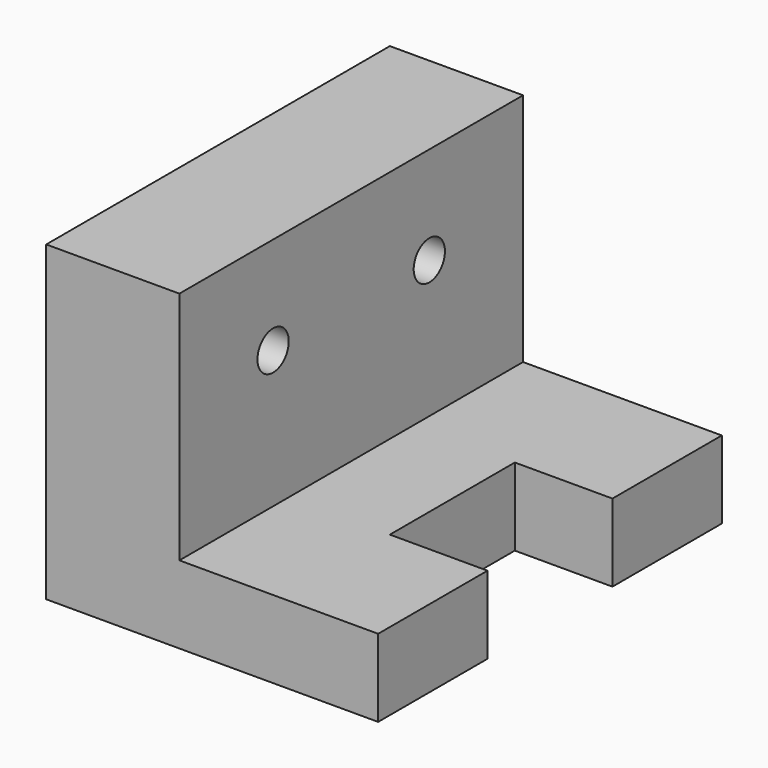
from build123d import *

# Parameters (mm, degrees)
F0_W     = 635
F0_H     = 2794
F1_DEPTH = 2032
F2_W     = 644.319852829
F2_H     = 1527.3802227974
F3_DEPTH = 2794.001
F4_R     = 127
F5_DEPTH = 1514.681147171
F6_W     = 648.431122303
F6_H     = 1527.3802227974
F7_DEPTH = 2794.001


with BuildPart() as f1:
    # F0 (on Top) → F1 (new body)
    with BuildSketch(Plane.XY):
        with Locations((317.5, 1397)):
            Rectangle(F0_W, F0_H)
        Polygon((635, 2794), (635, 0), (2159, 0), (2159, 889), (1524, 889), (1524, 1905), (2159, 1905), (2159, 2794), align=None)
    extrude(amount=F1_DEPTH)

    # F2 (on face) → F3 (cut, through all)
    with BuildSketch(Plane.XZ):
        with Locations((1836.8400735855, 1268.3098886013)):
            Rectangle(F2_W, F2_H)
    extrude(amount=-F3_DEPTH, mode=Mode.SUBTRACT)

    # F4 (on face) → F5 (cut, through all)
    with BuildSketch(Plane.YZ.offset(1514.680147171)):
        with Locations((2032, 1397)):
            Circle(F4_R)
        with Locations((762, 1397)):
            Circle(F4_R)
    extrude(amount=-F5_DEPTH, mode=Mode.SUBTRACT)

    # F6 (on face) → F7 (cut, through all)
    with BuildSketch(Plane.XZ):
        with Locations((1190.4645860195, 1268.3098886013)):
            Rectangle(F6_W, F6_H)
    extrude(amount=-F7_DEPTH, mode=Mode.SUBTRACT)


solid = f1.part
